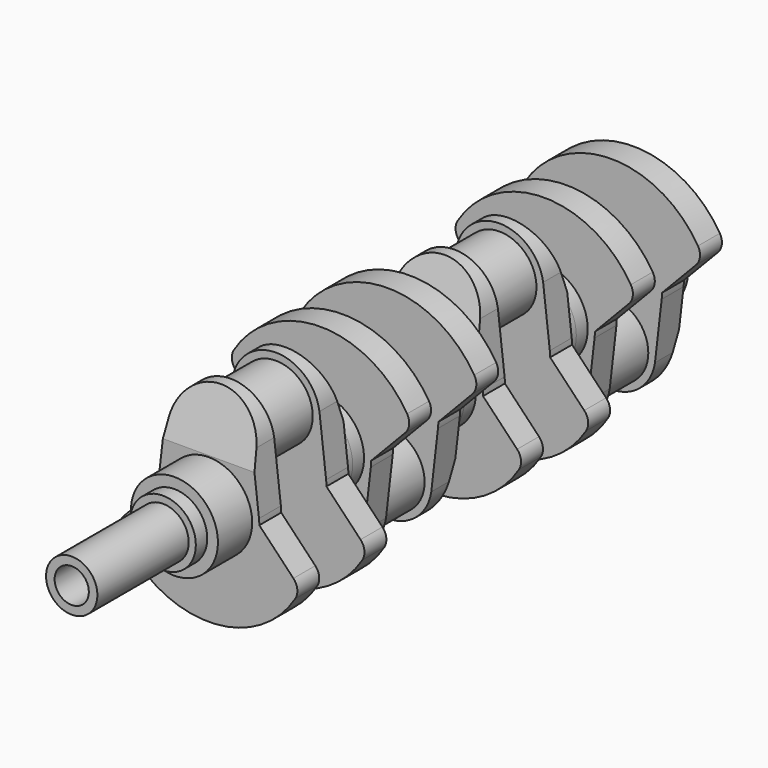
from build123d import *

# Parameters (mm, degrees)
F1_DEPTH  = 24.3586
F2_R      = 38.735
F3_DEPTH  = 12.7
F4_R      = 32.893
F5_DEPTH  = 25.1714
F7_DEPTH  = 100.584
F11_ANGLE = 180
F12_ANGLE = 180
F13_DEPTH = 25.4
F14_R     = 29.21
F15_DEPTH = 12.7
F16_R     = 22.86
F16_R_2   = 15.24
F17_DEPTH = 101.6


with BuildPart() as f1:
    # F0 (on Front) → F1 (new body)
    with BuildSketch(Plane.XZ):
        with BuildLine():
            Line((-38.8343915367, 56.765781418), (-44.7878576566, 5.1676911222))
            ThreePointArc((-44.7878576566, 5.1676911222), (-45.0106531137, 2.588113459), (-45.085, 0))
            Line((-45.085, 0), (-75.4296230072, -31.7507315176))
            ThreePointArc((-75.4296230072, -31.7507315176), (-78.8758954242, -39.1705564298), (-77.0821164183, -47.1525957793))
            ThreePointArc((-77.0821164183, -47.1525957793), (0, -90.3605), (77.0821164183, -47.1525957793))
            ThreePointArc((77.0821164183, -47.1525957793), (78.8758954242, -39.1705564298), (75.4296230072, -31.7507315176))
            Line((75.4296230072, -31.7507315176), (45.085, 0))
            ThreePointArc((45.085, 0), (45.0106531137, 2.588113459), (44.7878576566, 5.1676911222))
            Line((44.7878576566, 5.1676911222), (38.8343915367, 56.765781418))
            ThreePointArc((38.8343915367, 56.765781418), (0, 90.3605), (-38.8343915367, 56.765781418))
        make_face()
    extrude(amount=F1_DEPTH)

    # F2 (on face) → F3 (join)
    with BuildSketch(Plane.XZ.offset(24.3586)):
        Circle(F2_R)
    extrude(amount=F3_DEPTH)

    # F4 (on face) → F5 (join)
    with BuildSketch(Plane(origin=(0, 0, 0), x_dir=(-1, 0, 0), z_dir=(0, 1, 0))):
        with Locations((0, 51.1175)):
            Circle(F4_R)
    extrude(amount=F5_DEPTH)

    # F6 (on Right) → F7 (cut, symmetric)
    with BuildSketch(Plane.YZ):
        Polygon((-9.2324605212, 94.8371365666), (-19.2786, 95.6272567787), (-70.8548203111, 97.9044958949), (-24.3586, 40.005), align=None)
    extrude(amount=F7_DEPTH, both=True, mode=Mode.SUBTRACT)

    # F8: F1 across face


with BuildPart() as f1_1:
    add(f1.part)
    add(f1.part.mirror(Plane(origin=(0, 25.1714, 51.1175), x_dir=(-1, 0, 0), z_dir=(0, 1, 0))))


with BuildPart() as f9_1:
    # F9: instance of F1
    add(f1_1.part.mirror(Plane(origin=(0, 87.4014, 0), x_dir=(-1, 0, 0), z_dir=(0, 1, 0))))


with BuildPart() as f10_1:
    # F10: instance of F9_1
    add(f9_1.part.mirror(Plane(origin=(0, 211.8614, 0), x_dir=(-1, 0, 0), z_dir=(0, 1, 0))))


with BuildPart() as f10_2:
    # F10: instance of F1
    add(f1_1.part.mirror(Plane(origin=(0, 211.8614, 0), x_dir=(-1, 0, 0), z_dir=(0, 1, 0))))


with BuildPart() as f9_1_1:
    # F11: moved
    add(f9_1.part.rotate(Axis((0, -37.0586, 0), (0, -1, 0)), F11_ANGLE))


with BuildPart() as f10_2_1:
    # F12: moved
    add(f10_2.part.rotate(Axis((0, -37.0586, 0), (0, -1, 0)), F12_ANGLE))


with BuildPart() as f1_2:
    add(f1_1.part)

    # F13 (add): a face of the model
    f13_faces = [f1_2.faces().sort_by_distance(p)[0] for p in [
        (0, -37.0586, 0),
    ]]
    extrude(f13_faces, amount=F13_DEPTH)

    # F14 (on face) → F15 (join)
    with BuildSketch(Plane.XZ.offset(62.4586)):
        Circle(F14_R)
    extrude(amount=F15_DEPTH)

    add(f9_1_1.part)  # F17 merges F9_1

    add(f10_1.part)  # F17 merges F10_1

    add(f10_2_1.part)  # F17 merges F10_2
    # F16 (on face) → F17 (join)
    with BuildSketch(Plane.XZ.offset(75.1586)):
        Circle(F16_R)
        Circle(F16_R_2, mode=Mode.SUBTRACT)
    extrude(amount=F17_DEPTH)


solid = f1_2.part
